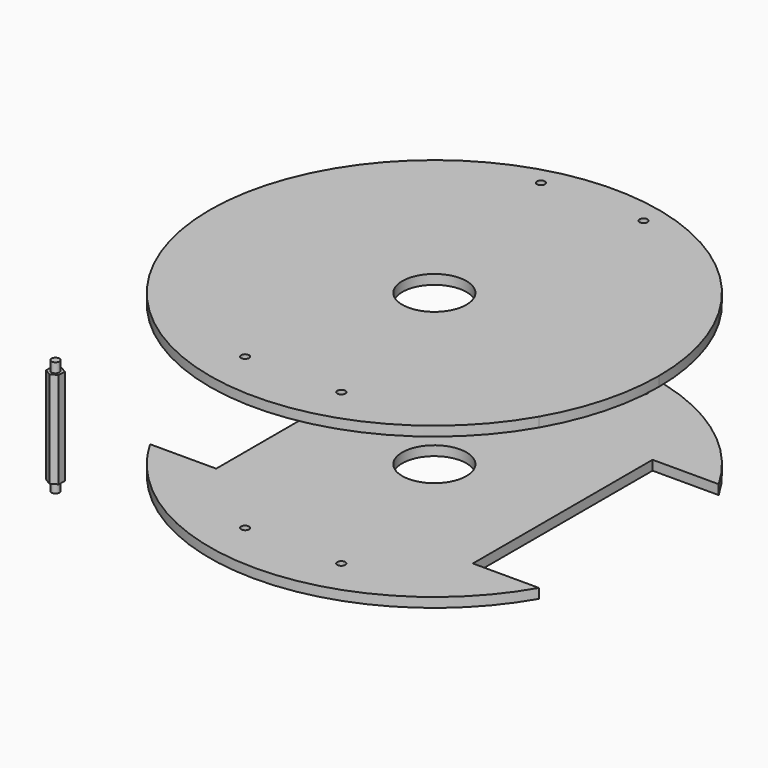
from build123d import *

# Parameters (mm, degrees)
F0_R     = 1.25
F0_R_2   = 10
F1_DEPTH = 3
F2_START = 47
F2_DEPTH = 3
F3_R     = 1.25
F4_DEPTH = 3
F6_DEPTH = 30
F7_R     = 1.25
F8_DEPTH = 3


with BuildPart() as f1:
    # F0 (on Top) → F1 (new body)
    with BuildSketch(Plane.XY):
        with BuildLine():
            Line((40, 35), (60.6217782649, 35))
            ThreePointArc((60.6217782649, 35), (0, 70), (-60.6217782649, 35))
            Line((-60.6217782649, 35), (-40, 35))
            Line((-40, 35), (-40, -35))
            Line((-40, -35), (-60.6217782649, -35))
            ThreePointArc((-60.6217782649, -35), (0, -70), (60.6217782649, -35))
            Line((60.6217782649, -35), (40, -35))
            Line((40, -35), (40, 35))
        make_face()
        with Locations((-15, -55)):
            Circle(F0_R, mode=Mode.SUBTRACT)
        with Locations((15, -55)):
            Circle(F0_R, mode=Mode.SUBTRACT)
        with Locations((-16, 61.5)):
            Circle(F0_R, mode=Mode.SUBTRACT)
        Circle(F0_R_2, mode=Mode.SUBTRACT)
        with Locations((16, 61.5)):
            Circle(F0_R, mode=Mode.SUBTRACT)
    extrude(amount=F1_DEPTH)


with BuildPart() as f2:
    # F0 (on Top) → F2 (new body)
    with BuildSketch(Plane.XY.offset(F2_START)):
        with BuildLine():
            Line((-40, 35), (-60.6217782649, 35))
            ThreePointArc((-60.6217782649, 35), (-70, 0), (-60.6217782649, -35))
            Line((-60.6217782649, -35), (-40, -35))
            Line((-40, -35), (-40, 35))
        make_face()
        with BuildLine():
            Line((40, 35), (60.6217782649, 35))
            ThreePointArc((60.6217782649, 35), (0, 70), (-60.6217782649, 35))
            Line((-60.6217782649, 35), (-40, 35))
            Line((-40, 35), (-40, -35))
            Line((-40, -35), (-60.6217782649, -35))
            ThreePointArc((-60.6217782649, -35), (0, -70), (60.6217782649, -35))
            Line((60.6217782649, -35), (40, -35))
            Line((40, -35), (40, 35))
        make_face()
        with Locations((-15, -55)):
            Circle(F0_R, mode=Mode.SUBTRACT)
        with Locations((15, -55)):
            Circle(F0_R, mode=Mode.SUBTRACT)
        with Locations((-16, 61.5)):
            Circle(F0_R, mode=Mode.SUBTRACT)
        Circle(F0_R_2, mode=Mode.SUBTRACT)
        with Locations((16, 61.5)):
            Circle(F0_R, mode=Mode.SUBTRACT)
        with BuildLine():
            ThreePointArc((60.6217782649, -35), (67.6148078402, -18.1173331572), (70, 0))
            ThreePointArc((70, 0), (67.6148078402, 18.1173331572), (60.6217782649, 35))
            Line((60.6217782649, 35), (40, 35))
            Line((40, 35), (40, -35))
            Line((40, -35), (60.6217782649, -35))
        make_face()
    extrude(amount=F2_DEPTH)


with BuildPart() as f4:
    # F3 (on Top) → F4 (new body)
    with BuildSketch(Plane.XY):
        with Locations((-66.7184889317, -64.2290040851)):
            Circle(F3_R)
    extrude(amount=F4_DEPTH)

    # F5 (on face) → F6 (join)
    with BuildSketch(Plane.XY.offset(3)):
        Polygon((-66.7783611943, -66.5376289237), (-64.7490973049, -65.4351674048), (-64.6892250423, -63.1265425661), (-66.6586166691, -61.9203792464), (-68.6878805584, -63.0228407654), (-68.747752821, -65.331465604), align=None)
    extrude(amount=F6_DEPTH)

    # F7 (on face) → F8 (join)
    with BuildSketch(Plane.XY.offset(33)):
        with Locations((-66.7184889317, -64.2290040851)):
            Circle(F7_R)
    extrude(amount=F8_DEPTH)


solid = Compound([f1.part, f2.part, f4.part])
